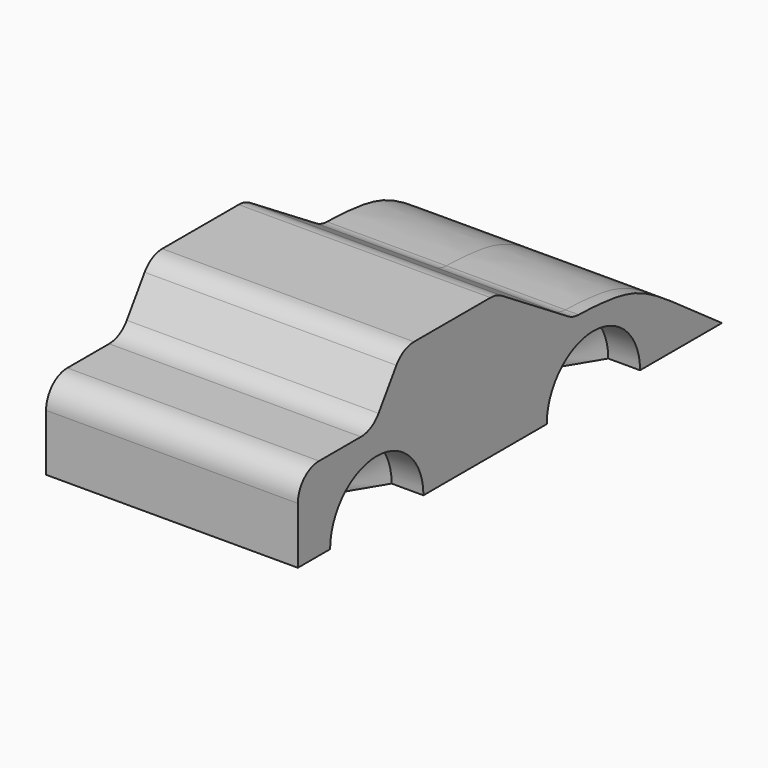
from build123d import *

# Parameters (mm, degrees)
F1_DEPTH = 22.5
F2_DEPTH = 25
F3_R     = 5
F5_D     = 22
F5_DEPTH = 6
F5_TIP   = 6.6094668093
F6_D     = 22
F6_DEPTH = 6
F6_TIP   = 6.6094668093
F8_D     = 22
F8_DEPTH = 6
F8_TIP   = 6.6094668093
F9_D     = 22
F9_DEPTH = 6
F9_TIP   = 6.6094668093


with BuildPart() as f1:
    # F0 (on Right) → F1 (new body, symmetric)
    with BuildSketch(Plane.YZ):
        with BuildLine():
            Line((-50, -20), (50, -20))
            Line((50, -20), (37.9778109491, -11.483842507))
            add(Edge.make_bspline(
                [(37.9778109491, -11.483842507), (33.7362140417, -8.5331639275), (28.4293044028, -5.4691263704), (19.5910925664, -4.9491255013), (14.8890013853, -4.8763493822)],
                knots=[0, 0, 0, 0, 0.441705983, 0.8114966727, 0.8114966727, 0.8114966727, 0.8114966727], degree=3))
            Line((14.8890013853, -4.8763493822), (-3.1495152507, 6.404644344))
            Line((-3.1495152507, 6.404644344), (-25.2773519605, 6.404644344))
            Line((-25.2773519605, 6.404644344), (-32.455407083, -4.2915642262))
            Line((-32.455407083, -4.2915642262), (-50, -4.2915642262))
            Line((-50, -4.2915642262), (-50, -20))
        make_face()
    extrude(amount=F1_DEPTH, both=True)

    # F0 (on Right) → F2 (join)
    with BuildSketch(Plane.YZ):
        with BuildLine():
            Line((-50, -20), (50, -20))
            Line((50, -20), (37.9778109491, -11.483842507))
            add(Edge.make_bspline(
                [(37.9778109491, -11.483842507), (33.7362140417, -8.5331639275), (28.4293044028, -5.4691263704), (19.5910925664, -4.9491255013), (14.8890013853, -4.8763493822)],
                knots=[0, 0, 0, 0, 0.441705983, 0.8114966727, 0.8114966727, 0.8114966727, 0.8114966727], degree=3))
            Line((14.8890013853, -4.8763493822), (-3.1495152507, 6.404644344))
            Line((-3.1495152507, 6.404644344), (-25.2773519605, 6.404644344))
            Line((-25.2773519605, 6.404644344), (-32.455407083, -4.2915642262))
            Line((-32.455407083, -4.2915642262), (-50, -4.2915642262))
            Line((-50, -4.2915642262), (-50, -20))
        make_face()
    extrude(amount=F2_DEPTH)

    # F3
    f3_edges = [f1.edges().sort_by_distance(p)[0] for p in [
        (1.25, -25.277352, 6.404644),
        (1.25, -32.455407, -4.291564),
        (1.25, -50, -4.291564),
        (1.25, -3.149515, 6.404644),
        (-11.25, 14.889001, -4.876349),
        (23.75, 14.889001, -4.876349),
        (11.25, 14.889001, -4.876349),
    ]]
    fillet(f3_edges, radius=F3_R)

    # F5
    with Locations(Plane.YZ.offset(25)):
        with Locations((-31.3936918974, -20)):
            Hole(F5_D / 2, depth=F5_DEPTH)
            with Locations((0, 0, -(F5_DEPTH + F5_TIP / 2))):  # 118° drill point
                Cone(0, F5_D / 2, F5_TIP, mode=Mode.SUBTRACT)

    # F6
    with Locations(Plane.YZ.offset(25)):
        with Locations((19.693158567, -20)):
            Hole(F6_D / 2, depth=F6_DEPTH)
            with Locations((0, 0, -(F6_DEPTH + F6_TIP / 2))):  # 118° drill point
                Cone(0, F6_D / 2, F6_TIP, mode=Mode.SUBTRACT)

    # F8
    with Locations(Plane(origin=(-22.5, 0, 0), x_dir=(0, -1, 0), z_dir=(-1, 0, 0))):
        with Locations((-19.701551646, -20)):
            Hole(F8_D / 2, depth=F8_DEPTH)
            with Locations((0, 0, -(F8_DEPTH + F8_TIP / 2))):  # 118° drill point
                Cone(0, F8_D / 2, F8_TIP, mode=Mode.SUBTRACT)

    # F9
    with Locations(Plane(origin=(-22.5, 0, 0), x_dir=(0, -1, 0), z_dir=(-1, 0, 0))):
        with Locations((31.4156152308, -20)):
            Hole(F9_D / 2, depth=F9_DEPTH)
            with Locations((0, 0, -(F9_DEPTH + F9_TIP / 2))):  # 118° drill point
                Cone(0, F9_D / 2, F9_TIP, mode=Mode.SUBTRACT)


solid = f1.part
